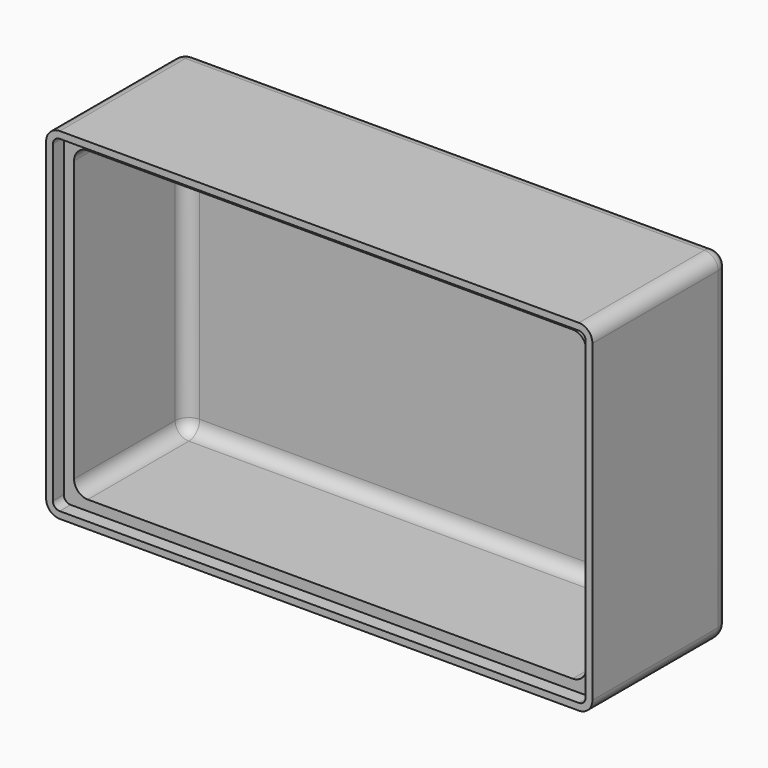
from build123d import *

# Parameters (mm, degrees)
F0_W     = 80
F0_H     = 50
F1_DEPTH = 12.5
F2_T     = -2.5
F3_R     = 2
F4_R     = 2
F6_DEPTH = 2


with BuildPart() as f1:
    # F0 (on Front) → F1 (new body, symmetric)
    with BuildSketch(Plane.XZ):
        Rectangle(F0_W, F0_H)
    extrude(amount=F1_DEPTH, both=True)

    # F2
    f2_openings = [f1.faces().sort_by_distance(p)[0] for p in [
        (0, -12.5, 0),
    ]]
    offset(amount=F2_T, openings=f2_openings)

    # F3
    f3_edges = [f1.edges().sort_by_distance(p)[0] for p in [
        (37.5, 10, 0),
        (0, 10, 22.5),
        (37.5, -1.25, 22.5),
        (37.5, -1.25, -22.5),
        (-37.5, -1.25, -22.5),
        (0, 10, -22.5),
        (-37.5, 10, 0),
        (-37.5, -1.25, 22.5),
    ]]
    fillet(f3_edges, radius=F3_R)

    # F4
    f4_edges = [f1.edges().sort_by_distance(p)[0] for p in [
        (0, 12.5, 25),
        (-40, 12.5, 0),
        (0, 12.5, -25),
        (40, 12.5, 0),
        (-40, 0, 25),
        (40, 0, 25),
        (-40, 0, -25),
        (40, 0, -25),
    ]]
    fillet(f4_edges, radius=F4_R)

    # F5 (on face) → F6 (cut)
    with BuildSketch(Plane.XZ.offset(12.5)):
        with BuildLine():
            Line((38, 24), (-38, 24))
            ThreePointArc((-38, 24), (-38.7071067812, 23.7071067812), (-39, 23))
            Line((-39, 23), (-39, -23))
            ThreePointArc((-39, -23), (-38.7071067812, -23.7071067812), (-38, -24))
            Line((-38, -24), (38, -24))
            ThreePointArc((38, -24), (38.7071067812, -23.7071067812), (39, -23))
            Line((39, -23), (39, 23))
            ThreePointArc((39, 23), (38.7071067812, 23.7071067812), (38, 24))
        make_face()
    extrude(amount=-F6_DEPTH, mode=Mode.SUBTRACT)


solid = f1.part
